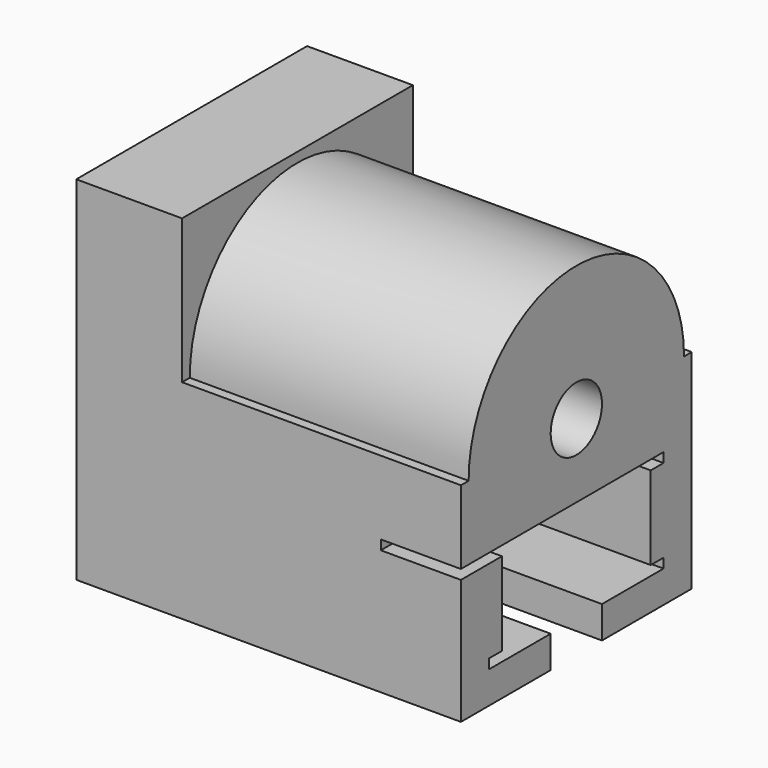
from build123d import *

# Parameters (mm, degrees)
SKETCH024_W     = 9
SKETCH024_H     = 11
PAD009_DEPTH    = 12
POCKET006_DEPTH = 8.701
POCKET007_DEPTH = 8
SKETCH034_W     = 5.8
SKETCH034_H     = 3.2
POCKET008_DEPTH = 12.65
SKETCH035_W     = 3.4
SKETCH035_H     = 0.3
POCKET009_DEPTH = 9.15
SKETCH036_W     = 3.4
SKETCH036_H     = 0.3
POCKET010_DEPTH = 4.2
SKETCH037_W     = 4.6
SKETCH037_H     = 0.3
POCKET011_DEPTH = 4
SKETCH038_W     = 2
SKETCH038_H     = 1
POCKET012_DEPTH = 6.15


with BuildPart() as part:
    # Sketch024 → Pad009 (new body)
    with BuildSketch(Plane.YZ.offset(-13.5)):
        with Locations((0, 6)):
            Rectangle(SKETCH024_W, SKETCH024_H)
    extrude(amount=PAD009_DEPTH)

    # Sketch025 → Pocket006 (cut, through all)
    with BuildSketch(Plane.YZ.offset(-10.2)):
        with BuildLine():
            Line((-5, 7), (-4.2, 7))
            ThreePointArc((4.2, 7), (0, 11.2), (-4.2, 7))
            Line((4.2, 7), (5, 7))
            Line((5, 12), (5, 7))
            Line((-5, 12), (5, 12))
            Line((-5, 7), (-5, 12))
        make_face()
    extrude(amount=POCKET006_DEPTH, mode=Mode.SUBTRACT)

    # Sketch031 → Groove (revolve, cut)
    with BuildSketch(Plane.XZ):
        Polygon((-3, 8.6), (-3, 8), (0, 8), (0, 7), (-14, 7), (-14, 10.2), (-4, 10.2), (-4, 8.6), align=None)
    revolve(axis=Axis((-14, 0, 7), (-1, 0, 0)), mode=Mode.SUBTRACT)

    # Sketch032 → Pocket007 (cut)
    with BuildSketch(Plane.YZ.offset(-1.5)):
        Polygon((-2.9, 4.4), (2.9, 4.4), (2.9, 1.8), (3.4, 1.8), (3.4, 1.5), (-3.4, 1.5), (-3.4, 1.8), (-2.9, 1.8), align=None)
    extrude(amount=-POCKET007_DEPTH, mode=Mode.SUBTRACT)

    # Sketch034 → Pocket008 (cut)
    with BuildSketch(Plane.YZ):
        with Locations((0, 3.1)):
            Rectangle(SKETCH034_W, SKETCH034_H)
    extrude(amount=-POCKET008_DEPTH, mode=Mode.SUBTRACT)

    # Sketch035 → Pocket009 (cut)
    with BuildSketch(Plane.YZ):
        with Locations((-1.7, 4.55)):
            Rectangle(SKETCH035_W, SKETCH035_H)
    extrude(amount=-POCKET009_DEPTH, mode=Mode.SUBTRACT)

    # Sketch036 → Pocket010 (cut)
    with BuildSketch(Plane.YZ):
        with Locations((1.7, 4.55)):
            Rectangle(SKETCH036_W, SKETCH036_H)
    extrude(amount=-POCKET010_DEPTH, mode=Mode.SUBTRACT)

    # Sketch037 → Pocket011 (cut)
    with BuildSketch(Plane.YZ):
        with Locations((-2.3, 4.55)):
            Rectangle(SKETCH037_W, SKETCH037_H)
    extrude(amount=-POCKET011_DEPTH, mode=Mode.SUBTRACT)

    # Sketch038 → Pocket012 (cut)
    with BuildSketch(Plane.YZ):
        with Locations((0, 1)):
            Rectangle(SKETCH038_W, SKETCH038_H)
    extrude(amount=-POCKET012_DEPTH, mode=Mode.SUBTRACT)


with BuildPart() as part_1:
    # Body009 placement: moved
    add(part.part.moved(Location((0, 0, -0.5))))


solid = part_1.part
